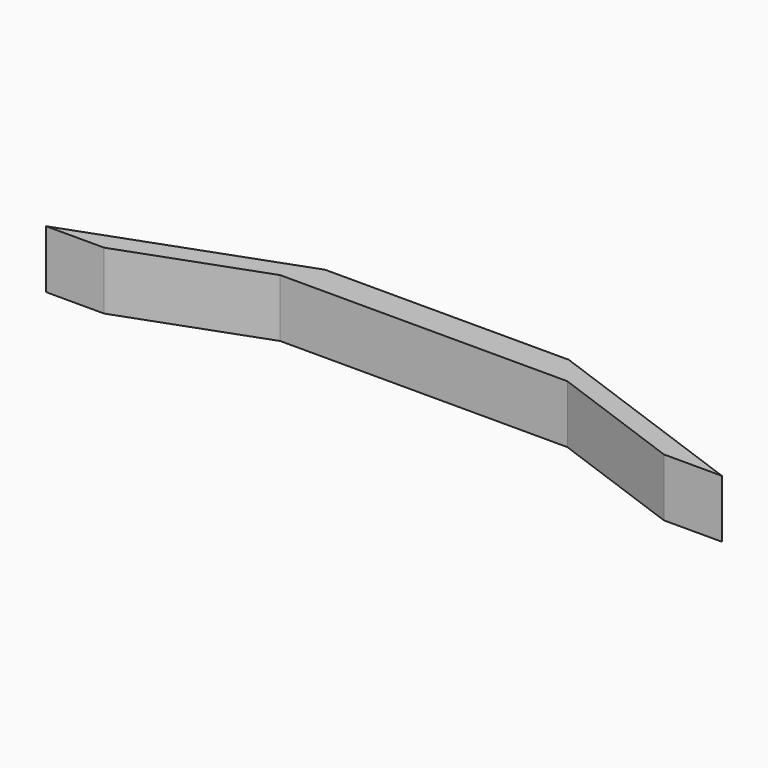
from build123d import *

# Parameters (mm, degrees)
PAD_DEPTH = 10


with BuildPart() as part:
    # Sketch → Pad (new body)
    with BuildSketch(Plane.XY):
        Polygon((0, 0), (37.229703, 13.550504), (79.229703, 13.550504), (116.459405, 0), (106.459405, 0), (82.96709, 8.550504), (33.492316, 8.550504), (10, 0), align=None)
    extrude(amount=PAD_DEPTH)


solid = part.part
